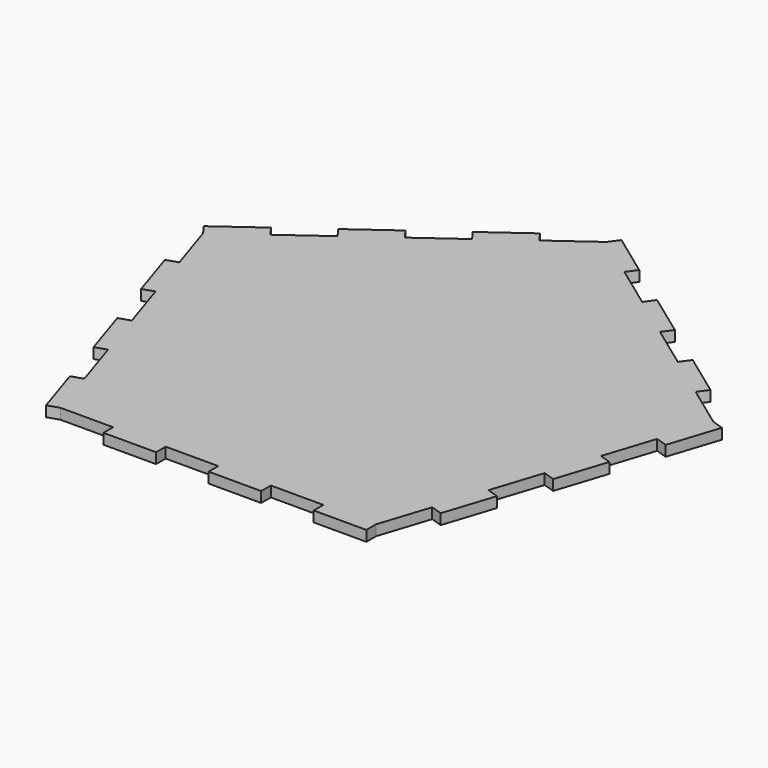
from build123d import *

# Parameters (mm, degrees)
F1_DEPTH = 3


with BuildPart() as f1:
    # F0 (on Top) → F1 (new body)
    with BuildSketch(Plane.XY):
        Polygon((63.54102, -4.873795), (68.176275, 9.392052), (71.448817, 8.328739), (76.084072, 22.594587), (72.811529, 23.6579), (60.676275, 32.474679), (62.698817, 35.25847), (50.563562, 44.075249), (48.54102, 41.291458), (36.405765, 50.108236), (38.428307, 52.892027), (26.293052, 61.708806), (24.27051, 58.925015), (12.135255, 67.741794), (14.157797, 70.525585), (2.022542, 79.342364), (0, 76.558573), (-12.135255, 67.741794), (-14.157797, 70.525585), (-26.293052, 61.708806), (-24.27051, 58.925015), (-36.405765, 50.108236), (-38.428307, 52.892027), (-50.563562, 44.075249), (-48.54102, 41.291458), (-60.676275, 32.474679), (-62.698817, 35.25847), (-74.834072, 26.441691), (-72.811529, 23.6579), (-68.176275, 9.392052), (-71.448817, 8.328739), (-66.813562, -5.937109), (-63.54102, -4.873795), (-58.905765, -19.139643), (-62.178307, -20.202957), (-57.543052, -34.468804), (-54.27051, -33.405491), (-49.635255, -47.671339), (-52.907797, -48.734652), (-48.272542, -63.0005), (-45, -61.937186), (-30, -61.937186), (-30, -65.378141), (-15, -65.378141), (-15, -61.937186), (0, -61.937186), (0, -65.378141), (15, -65.378141), (15, -61.937186), (30, -61.937186), (30, -65.378141), (45, -65.378141), (45, -61.937186), (49.635255, -47.671339), (52.907797, -48.734652), (57.543052, -34.468804), (54.27051, -33.405491), (58.905765, -19.139643), (62.178307, -20.202957), (66.813562, -5.937109), align=None)
    extrude(amount=F1_DEPTH)


solid = f1.part
